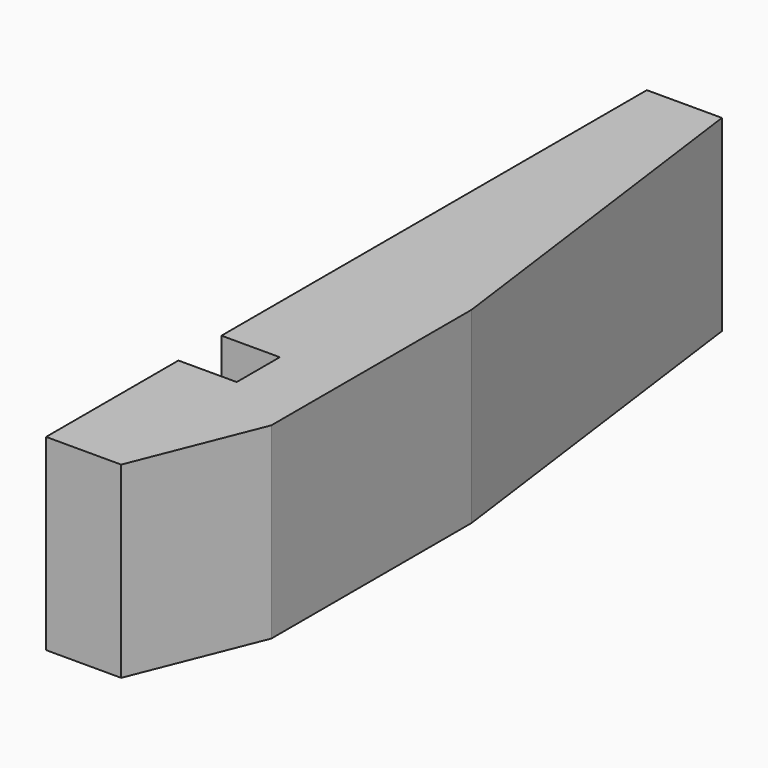
from build123d import *

# Parameters (mm, degrees)
F0_W     = 152.4
F0_H     = 38.1
F1_DEPTH = 12.7
F2_SIZE2 = 10.16
F2_SIZE  = 25.4
F3_SIZE2 = 10.16
F3_SIZE  = 76.2
F4_W     = 11.8357492981
F4_H     = 10.9219625592
F5_DEPTH = 25.4


with BuildPart() as f1:
    # F0 (on Right) → F1 (new body, symmetric)
    with BuildSketch(Plane.YZ):
        with Locations((-38.1, 12.7)):
            Rectangle(F0_W, F0_H)
    extrude(amount=F1_DEPTH, both=True)

    # F2
    f2_edges = [f1.edges().sort_by_distance(p)[0] for p in [
        (12.7, -114.3, 12.7),
    ]]
    f2_side = f1.faces().sort_by_distance((12.7, -38.1, 12.7))[0]
    chamfer(f2_edges, length=F2_SIZE, length2=F2_SIZE2, reference=f2_side)

    # F3
    f3_edges = [f1.edges().sort_by_distance(p)[0] for p in [
        (12.7, 38.1, 12.7),
    ]]
    f3_side = f1.faces().sort_by_distance((12.7, -25.4, 12.7))[0]
    chamfer(f3_edges, length=F3_SIZE, length2=F3_SIZE2, reference=f3_side)

    # F4 (on face) → F5 (cut)
    with BuildSketch(Plane.XY.offset(31.75)):
        with Locations((-6.7821253509, -75.2695389092)):
            Rectangle(F4_W, F4_H)
    extrude(amount=-F5_DEPTH, mode=Mode.SUBTRACT)


solid = f1.part
